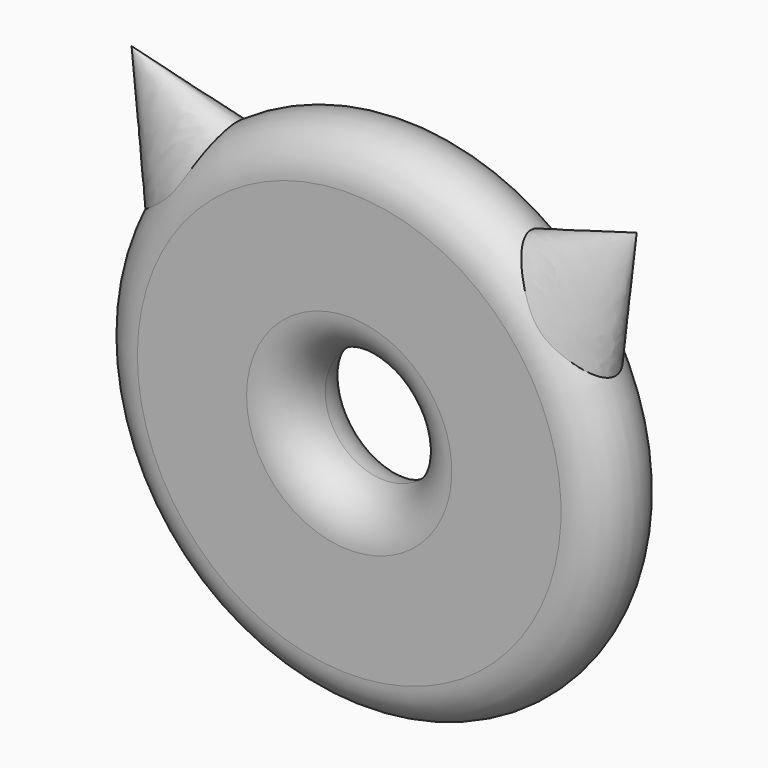
from build123d import *


with BuildPart() as f2:
    # F0 (on Top) → F2 (revolve)
    with BuildSketch(Plane.XY):
        with BuildLine():
            ThreePointArc((-48.5, -10), (-41.4289321881, -7.0710678119), (-38.5, 0))
            ThreePointArc((-38.5, 0), (-41.4289321881, 7.0710678119), (-48.5, 10))
            ThreePointArc((-48.5, 10), (-58.5, 0), (-48.5, -10))
        make_face()
        with BuildLine():
            ThreePointArc((-48.5, 10), (-41.4289321881, 7.0710678119), (-38.5, 0))
            ThreePointArc((-38.5, 0), (-41.4289321881, -7.0710678119), (-48.5, -10))
            Line((-48.5, -10), (-23.5, -10))
            ThreePointArc((-23.5, -10), (-33.5, 0), (-23.5, 10))
            Line((-23.5, 10), (-48.5, 10))
        make_face()
        with BuildLine():
            ThreePointArc((-13.5, 0), (-16.4289321881, 7.0710678119), (-23.5, 10))
            ThreePointArc((-23.5, 10), (-33.5, 0), (-23.5, -10))
            ThreePointArc((-23.5, -10), (-16.4289321881, -7.0710678119), (-13.5, 0))
        make_face()
    revolve(axis=Axis((0, 1.0170675814, 0), (0, -1, 0)))

    # F5 (on face) → F6 section 0
    with BuildSketch(Plane(origin=(-37.654770285, 0, 37.2117688785), x_dir=(0, 1, 0), z_dir=(0.711278432, 0, -0.7029103728)), mode=Mode.PRIVATE) as f6_s0:
        with BuildLine():
            add(Edge.make_bspline(
                [(0, 12.8881898709), (-14.9271422831, 12.8881898709), (-7.4635711415, -12.6903548371), (0, -38.2688995451), (7.4635711415, -12.6903548371), (14.9271422831, 12.8881898709), (0, 12.8881898709)],
                knots=[0, 0, 0, 2.0943951024, 2.0943951024, 4.1887902048, 4.1887902048, 6.2831853072, 6.2831853072, 6.2831853072], degree=2, weights=[1, 0.5, 1, 0.5, 1, 0.5, 1]))
        make_face()
    loft([Vertex(-57.8274913132, 0, 55.2121810615), f6_s0.sketch])

    # F7: F2 across plane


with BuildPart() as f2_1:
    add(f2.part)
    add(f2.part.mirror(Plane.YZ))


solid = f2_1.part
